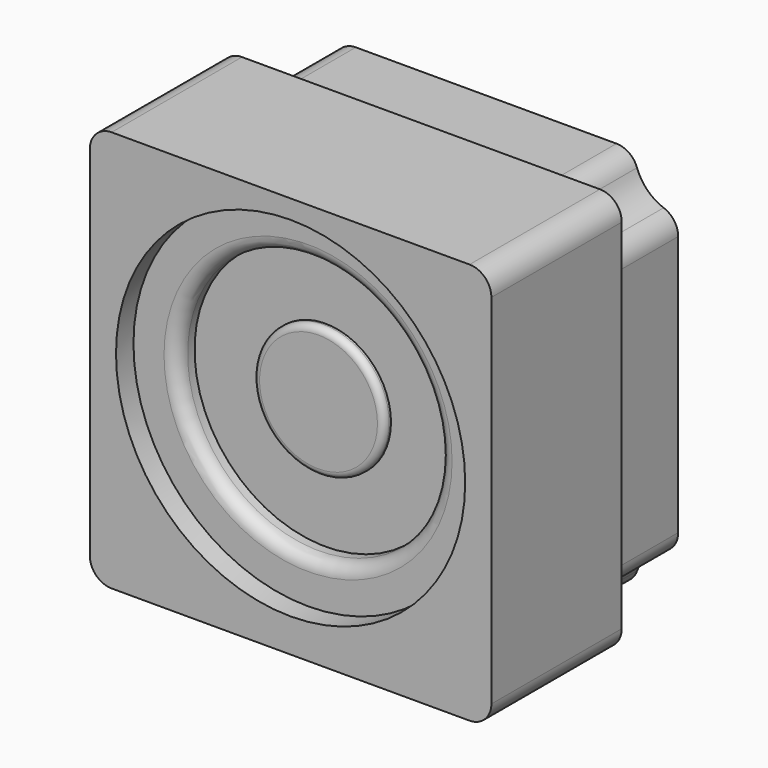
from build123d import *

# Parameters (mm, degrees)
SKETCH_W        = 46
SKETCH_H        = 28
PAD_DEPTH       = 46
SKETCH001_W     = 46
SKETCH001_H     = 46
POCKET_DEPTH    = 9.333333
FILLET_R        = 2.5
SKETCH002_R     = 20
POCKET001_DEPTH = 2.5
SKETCH003_R     = 15
POCKET002_DEPTH = 2.5
SKETCH004_R     = 7.5
PAD001_DEPTH    = 1
FILLET001_R     = 1.5
FILLET002_R     = 0.75


with BuildPart() as part:
    # Sketch → Pad (new body)
    with BuildSketch(Plane.XY):
        Rectangle(SKETCH_W, SKETCH_H)
    extrude(amount=PAD_DEPTH)

    # Sketch001 (on Face4 of Pad) → Pocket (cut)
    with BuildSketch(Plane(origin=(0, 14, 0), x_dir=(-1, 0, 0), z_dir=(0, 1, 0))):
        with Locations((0, 23)):
            Rectangle(SKETCH001_W, SKETCH001_H)
        with BuildLine():
            Line((-22, 40), (-22, 6))
            ThreePointArc((-17, 1), (-18.464466, 4.535534), (-22, 6))
            Line((-17, 1), (17, 1))
            ThreePointArc((22, 6), (18.464466, 4.535534), (17, 1))
            Line((22, 6), (22, 40))
            ThreePointArc((17, 45), (18.464466, 41.464466), (22, 40))
            Line((17, 45), (-17, 45))
            ThreePointArc((-22, 40), (-18.464466, 41.464466), (-17, 45))
        make_face(mode=Mode.SUBTRACT)
    extrude(amount=-POCKET_DEPTH, mode=Mode.SUBTRACT)

    # Fillet
    fillet_edges = [part.edges().sort_by_distance(p)[0] for p in [
        (23, -4.666666, 46),
        (-23, -4.666666, 46),
        (-23, -4.666666, 0),
        (23, -4.666666, 0),
        (-22, 9.333334, 6),
        (-17, 9.333334, 1),
        (17, 9.333334, 1),
        (22, 9.333334, 6),
        (22, 9.333334, 40),
        (17, 9.333334, 45),
        (-17, 9.333334, 45),
        (-22, 9.333334, 40),
    ]]
    fillet(fillet_edges, radius=FILLET_R)

    # Sketch002 (on Face2 of Fillet) → Pocket001 (cut)
    with BuildSketch(Plane.XZ.offset(14)):
        with Locations((0, 23.846073)):
            Circle(SKETCH002_R)
    extrude(amount=-POCKET001_DEPTH, mode=Mode.SUBTRACT)

    # Sketch003 (on Face28 of Pocket001) → Pocket002 (cut)
    with BuildSketch(Plane.XZ.offset(11.5)):
        with Locations((0, 23.846073)):
            Circle(SKETCH003_R)
    extrude(amount=-POCKET002_DEPTH, mode=Mode.SUBTRACT)

    # Sketch004 (on Face31 of Pocket002) → Pad001 (join)
    with BuildSketch(Plane.XZ.offset(9)):
        with Locations((0, 23.846073)):
            Circle(SKETCH004_R)
    extrude(amount=PAD001_DEPTH)

    # Fillet001
    fillet001_edges = [part.edges().sort_by_distance(p)[0] for p in [
        (-15, -11.5, 23.846073),
    ]]
    fillet(fillet001_edges, radius=FILLET001_R)

    # Fillet002
    fillet002_edges = [part.edges().sort_by_distance(p)[0] for p in [
        (-7.5, -10, 23.846073),
    ]]
    fillet(fillet002_edges, radius=FILLET002_R)


solid = part.part
